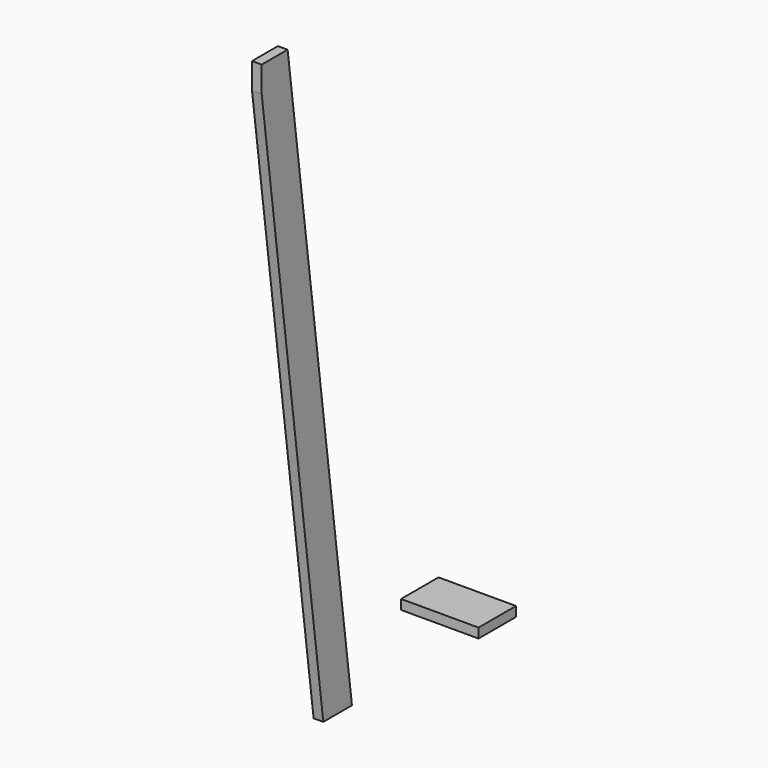
from build123d import *

# Parameters (mm, degrees)
F2_DEPTH = 38.1
F3_W     = 184.15
F3_H     = 38.1
F4_DEPTH = 304.8
F8_DEPTH = 38.101


with BuildPart() as f2:
    # F1 (on Right) → F2 (new body)
    with BuildSketch(Plane.YZ):
        Polygon((-175.3825679335, 2399.2246268326), (-316.2912839668, 2399.2246268326), (0, 0), (140.9087160332, 0), align=None)
    extrude(amount=-F2_DEPTH)

    # F7 (on face) → F8 (cut, through all)
    with BuildSketch(Plane.YZ):
        Polygon((-302.8972923865, 2399.2246268326), (-316.2912839668, 2399.2246268326), (-302.8972923865, 2297.6246268326), align=None)
    extrude(amount=-F8_DEPTH, mode=Mode.SUBTRACT)


with BuildPart() as f4:
    # F3 (on Right) → F4 (new body)
    with BuildSketch(Plane.YZ):
        with Locations((474.4427301407, 251.3345607996)):
            Rectangle(F3_W, F3_H)
    extrude(amount=F4_DEPTH)


solid = Compound([f2.part, f4.part])
